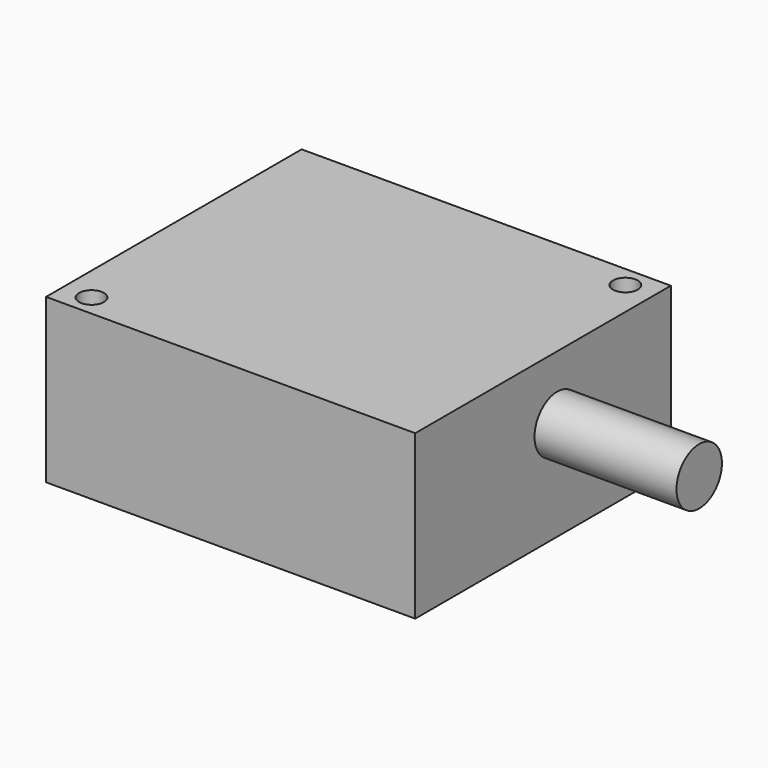
from build123d import *

# Parameters (mm, degrees)
SKETCH_W     = 52
SKETCH_H     = 45
SKETCH_R     = 1.75
PAD_DEPTH    = 23
SKETCH001_R  = 4
PAD001_DEPTH = 20


with BuildPart() as part:
    # Sketch → Pad (new body)
    with BuildSketch(Plane.XY):
        Rectangle(SKETCH_W, SKETCH_H)
        with Locations((-22, -19.5)):
            Circle(SKETCH_R, mode=Mode.SUBTRACT)
        with Locations((22, 19.5)):
            Circle(SKETCH_R, mode=Mode.SUBTRACT)
    extrude(amount=PAD_DEPTH)

    # Sketch001 (on Face2 of Pad) → Pad001 (join)
    with BuildSketch(Plane.YZ.offset(26)):
        with Locations((2.5, 14)):
            Circle(SKETCH001_R)
    extrude(amount=PAD001_DEPTH)


solid = part.part
